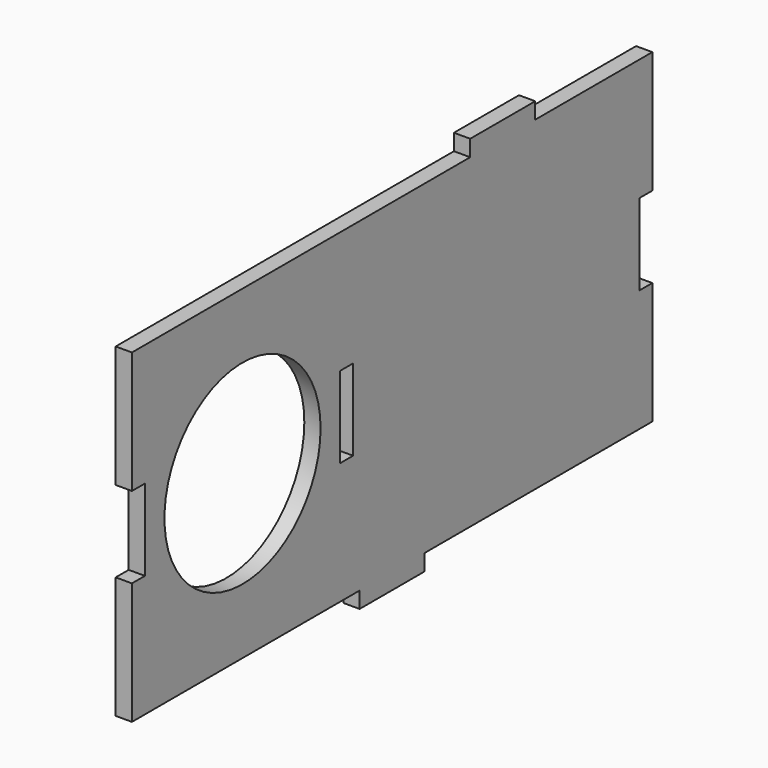
from build123d import *

# Parameters (mm, degrees)
F0_R     = 30
F0_W     = 5
F0_H     = 25
F1_DEPTH = 5


with BuildPart() as f1:
    # F0 (on Right) → F1 (new body)
    with BuildSketch(Plane.YZ):
        Polygon((125.319932, 62.5), (80.319932, 62.5), (80.319932, 67.5), (55.319932, 67.5), (55.319932, 62.5), (10.319932, 62.5), (-74.680068, 62.5), (-74.680068, 25), (-69.680068, 25), (-69.680068, 0), (-74.680068, 0), (-74.680068, -37.5), (12.819932, -37.5), (12.819932, -42.5), (37.819932, -42.5), (37.819932, -37.5), (125.319932, -37.5), (125.319932, 0), (120.319932, 0), (120.319932, 25), (125.319932, 25), align=None)
        with Locations((-32.180068, 12.5)):
            Circle(F0_R, mode=Mode.SUBTRACT)
        with Locations((7.819932, 12.5)):
            Rectangle(F0_W, F0_H, mode=Mode.SUBTRACT)
    extrude(amount=F1_DEPTH)


solid = f1.part
